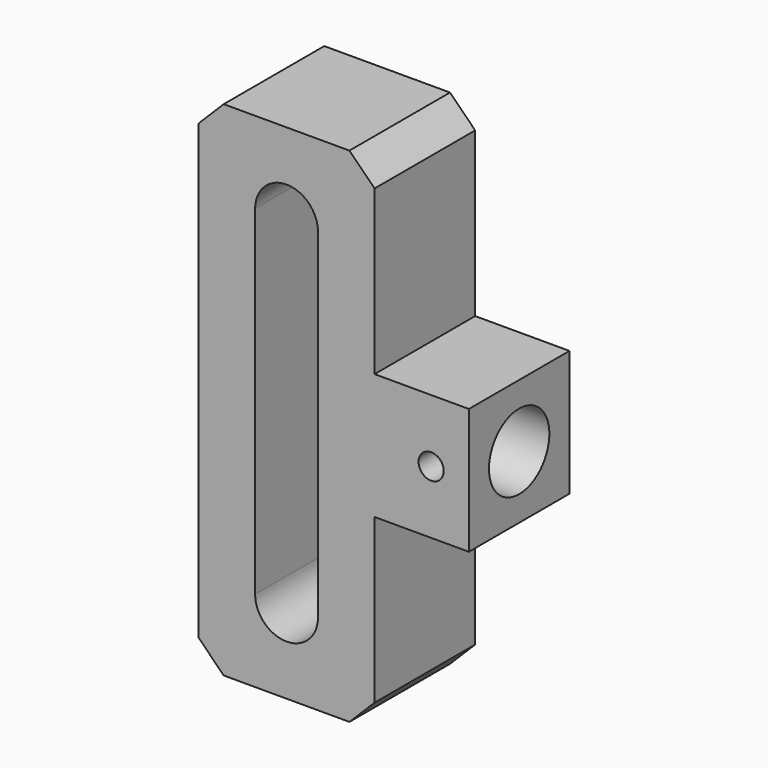
from build123d import *

# Parameters (mm, degrees)
F1_DEPTH      = 10
F1_DEPTH_BACK = 10
F2_SIZE       = 4
F4_D          = 4
F4_DEPTH      = 10
F4_TIP        = 1.2017212381
F6_D          = 12
F6_DEPTH      = 17
F6_TIP        = 3.6051637142


with BuildPart() as f1:
    # F0 (on Front) → F1 (new body, two sides)
    with BuildSketch(Plane.XZ) as f1_sk:
        Polygon((-14, 40), (-14, -40), (14, -40), (14, -10), (29, -10), (29, 10), (14, 10), (14, 40), align=None)
        with BuildLine():
            ThreePointArc((-5, 27), (0, 32), (5, 27))
            Line((5, 27), (5, -27))
            ThreePointArc((5, -27), (0, -32), (-5, -27))
            Line((-5, -27), (-5, 27))
        make_face(mode=Mode.SUBTRACT)
    extrude(amount=F1_DEPTH)
    extrude(f1_sk.sketch, amount=-F1_DEPTH_BACK)

    # F2
    f2_edges = [f1.edges().sort_by_distance(p)[0] for p in [
        (14, 0, 40),
        (-14, 0, 40),
        (14, 0, -40),
        (-14, 0, -40),
    ]]
    chamfer(f2_edges, length=F2_SIZE)

    # F4
    with Locations(Plane.XZ.offset(10)):
        with Locations((23, 0)):
            Hole(F4_D / 2, depth=F4_DEPTH)
            with Locations((0, 0, -(F4_DEPTH + F4_TIP / 2))):  # 118° drill point
                Cone(0, F4_D / 2, F4_TIP, mode=Mode.SUBTRACT)

    # F6
    with Locations(Plane.YZ.offset(29)):
        with Locations((0, 0)):
            Hole(F6_D / 2, depth=F6_DEPTH)
            with Locations((0, 0, -(F6_DEPTH + F6_TIP / 2))):  # 118° drill point
                Cone(0, F6_D / 2, F6_TIP, mode=Mode.SUBTRACT)


solid = f1.part
